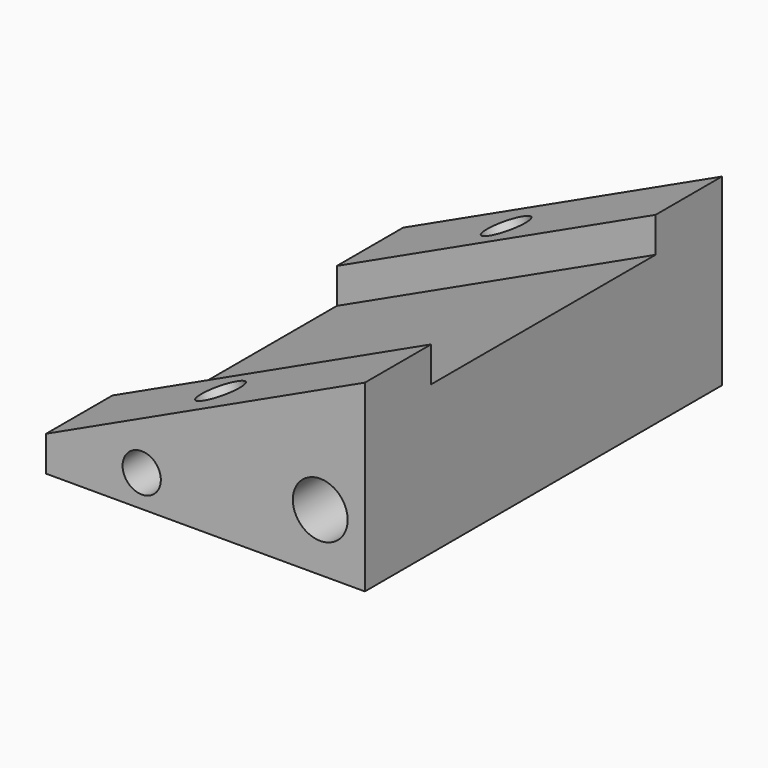
from build123d import *

# Parameters (mm, degrees)
F1_DEPTH  = 35
F5_DEPTH  = 13
F7_DEPTH  = 13
F9_D      = 6.6
F12_DEPTH = 15
F14_D     = 8.6
F17_D     = 6
F17_DEPTH = 10
F17_TIP   = 1.8025818571
F19_D     = 6
F19_DEPTH = 10
F19_TIP   = 1.8025818571


with BuildPart() as f1:
    # F0 (on Front) → F1 (new body, symmetric)
    with BuildSketch(Plane.XZ):
        Polygon((50, 23.3153829077), (0, 0), (50, 0), align=None)
    extrude(amount=F1_DEPTH, both=True)

    # F4 (on face) → F5 (join)
    with BuildSketch(Plane.XZ.offset(35)):
        Polygon((0, 5.5168895948), (0, 0), (50, 23.3153829077), (50, 28.8322725026), align=None)
    extrude(amount=-F5_DEPTH)

    # F6 (on face) → F7 (join)
    with BuildSketch(Plane(origin=(0, 35, 0), x_dir=(-1, 0, 0), z_dir=(0, 1, 0))):
        Polygon((-50, 28.832308948), (-50, 23.3153829077), (0, 0), (0, 5.5180899799), align=None)
    extrude(amount=-F7_DEPTH)

    # F9 (through all)
    with Locations(Plane(origin=(-2.1134832591, 0, 4.5326057501), x_dir=(0.9063158679, 0, 0.4226009319), z_dir=(-0.4226009319, 0, 0.9063158679))):
        with Locations((26.3319499681, 28), (26.3319499681, -28)):
            Hole(F9_D / 2)

    # F11 (on offset) → F12 (cut)
    with BuildSketch(Plane(origin=(2.1130913087, 0, -4.5315389352), x_dir=(0.906307787, 0, 0.4226182617), z_dir=(0.4226182617, 0, -0.906307787))):
        Polygon((20.2118023361, -28), (23.2717587628, -33.3), (29.3916716162, -33.3), (32.4516280429, -28), (29.3916716162, -22.7), (23.2717587628, -22.7), align=None)
        Polygon((20.2118023361, 28), (23.2717587628, 22.7), (29.3916716162, 22.7), (32.4516280429, 28), (29.3916716162, 33.3), (23.2717587628, 33.3), align=None)
    extrude(amount=F12_DEPTH, mode=Mode.SUBTRACT)

    # F14 (through all)
    with Locations(Plane.XZ.offset(35)):
        with Locations((43, 9)):
            Hole(F14_D / 2)

    # F17
    with Locations(Plane.XZ.offset(35)):
        with Locations((15, 5)):
            Hole(F17_D / 2, depth=F17_DEPTH)
            with Locations((0, 0, -(F17_DEPTH + F17_TIP / 2))):  # 118° drill point
                Cone(0, F17_D / 2, F17_TIP, mode=Mode.SUBTRACT)

    # F19
    with Locations(Plane(origin=(0, 35, 0), x_dir=(-1, 0, 0), z_dir=(0, 1, 0))):
        with Locations((-15, 5)):
            Hole(F19_D / 2, depth=F19_DEPTH)
            with Locations((0, 0, -(F19_DEPTH + F19_TIP / 2))):  # 118° drill point
                Cone(0, F19_D / 2, F19_TIP, mode=Mode.SUBTRACT)


solid = f1.part
